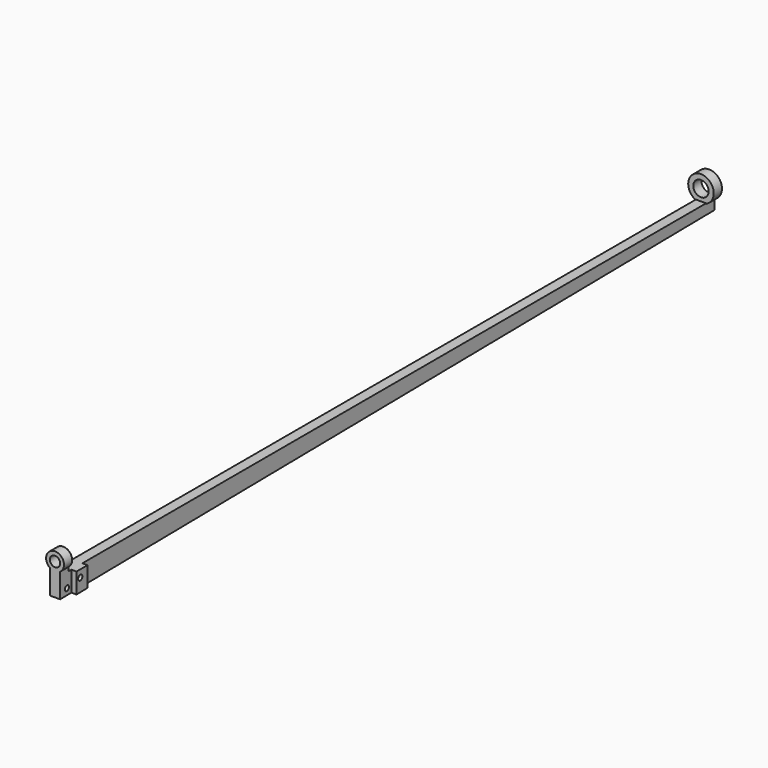
from build123d import *

# Parameters (mm, degrees)
F1_DEPTH = 2
F2_R     = 1.5
F3_DEPTH = 2
F4_R     = 1
F5_DEPTH = 2
F6_R     = 0.512692
F7_DEPTH = 1
F8_R     = 0.507408
F9_DEPTH = 1


with BuildPart() as f1:
    # F0 (on Right) → F1 (new body)
    with BuildSketch(Plane.YZ):
        with BuildLine():
            ThreePointArc((2.152867, -2.751681), (1.644867, -2.243681), (1.136867, -2.751681))
            ThreePointArc((1.136867, -2.751681), (1.644867, -3.259681), (2.152867, -2.751681))
        make_face()
        with BuildLine():
            ThreePointArc((4.184458, -1.435063), (4.035669, -1.075853), (3.676458, -0.927063))
            ThreePointArc((3.676458, -0.927063), (3.317248, -1.794273), (4.184458, -1.435063))
        make_face()
        Polygon((3.676458, 0), (0, 0), (0, -2.751681), (0, -4), (160.02, -2), (160.02, 0), align=None)
        with BuildLine():
            ThreePointArc((2.152867, -2.751681), (1.644867, -3.259681), (1.136867, -2.751681))
            ThreePointArc((1.136867, -2.751681), (1.644867, -2.243681), (2.152867, -2.751681))
        make_face(mode=Mode.SUBTRACT)
        with BuildLine():
            ThreePointArc((4.184458, -1.435063), (3.317248, -1.794273), (3.676458, -0.927063))
            ThreePointArc((3.676458, -0.927063), (4.035669, -1.075853), (4.184458, -1.435063))
        make_face(mode=Mode.SUBTRACT)
    extrude(amount=F1_DEPTH)

    # F2 (on face) → F3 (join)
    with BuildSketch(Plane(origin=(0, 160.02, 0), x_dir=(-1, 0, 0), z_dir=(0, 1, 0))):
        with BuildLine():
            ThreePointArc((0, -0.091288), (1.09165, 0.830694), (1.5, 2.2))
            ThreePointArc((1.5, 2.2), (-2.369306, 4.29165), (-2, -0.091288))
            Line((-2, -0.091288), (-2, 0))
            Line((-2, 0), (0, 0))
            Line((0, 0), (0, -0.091288))
        make_face()
        with Locations((-1, 2.2)):
            Circle(F2_R, mode=Mode.SUBTRACT)
    extrude(amount=-F3_DEPTH)

    # F4 (on face) → F5 (join)
    with BuildSketch(Plane.XZ):
        with BuildLine():
            Line((2, 0), (2, 0.763859))
            ThreePointArc((2, 0.763859), (1, 3.95), (0, 0.763859))
            Line((0, 0.763859), (0, 0))
            Line((0, 0), (2, 0))
        make_face()
        with Locations((1, 2.2)):
            Circle(F4_R, mode=Mode.SUBTRACT)
    extrude(amount=-F5_DEPTH)

    # F6 (on face) → F7 (join)
    with BuildSketch(Plane.YZ.offset(2)):
        Polygon((5.441279, 0), (2.750172, 0), (2.750172, -3.965627), (5.441279, -3.931993), align=None)
        with Locations((3.676458, -1.435063)):
            Circle(F6_R, mode=Mode.SUBTRACT)
    extrude(amount=F7_DEPTH)

    # F8 (on face) → F9 (join)
    with BuildSketch(Plane(origin=(0, 0, 0), x_dir=(0, -1, 0), z_dir=(-1, 0, 0))):
        Polygon((-2.654617, 0), (-5.185953, 0), (-5.186794, -3.935173), (-2.654617, -3.966821), align=None)
        with Locations((-3.676458, -1.435063)):
            Circle(F8_R, mode=Mode.SUBTRACT)
    extrude(amount=F9_DEPTH)


solid = f1.part
